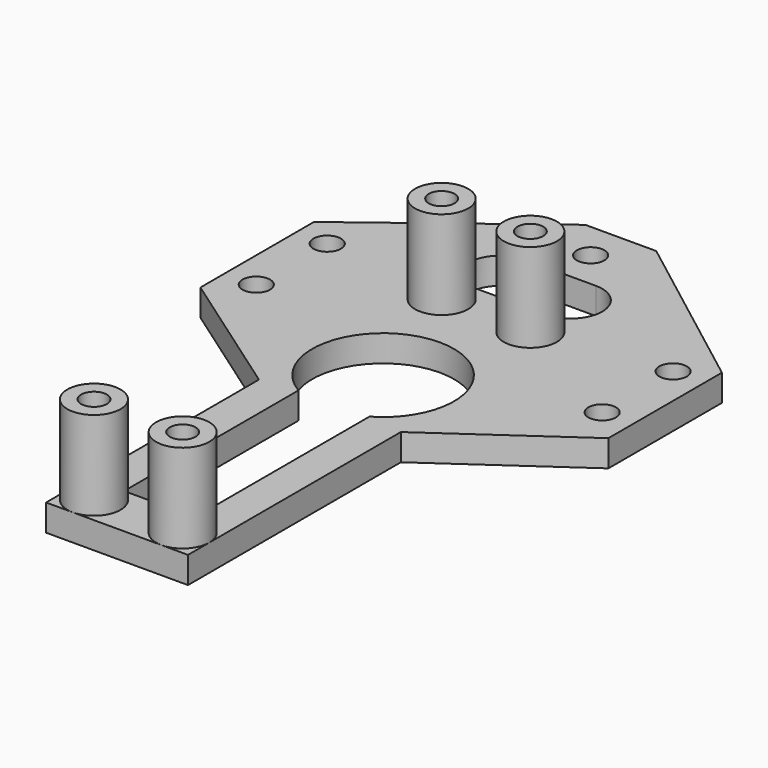
from build123d import *

# Parameters (mm, degrees)
SKETCH_R     = 1.55
PAD_DEPTH    = 3
SKETCH001_R  = 3
PAD001_DEPTH = 10
SKETCH002_R  = 1.45
POCKET_DEPTH = 7


with BuildPart() as part:
    # Sketch → Pad (new body)
    with BuildSketch(Plane.XY):
        Polygon((8, -30), (-8, -30), (-8, 0), (-23, 10.503113), (-23, 26.503113), (-4, 41), (4, 41), (23, 26.503113), (23, 10.503113), (8, 0), align=None)
        with Locations((0, 36.75)):
            Circle(SKETCH_R, mode=Mode.SUBTRACT)
        with Locations((19.5, 24)):
            Circle(SKETCH_R, mode=Mode.SUBTRACT)
        with Locations((19.5, 14)):
            Circle(SKETCH_R, mode=Mode.SUBTRACT)
        with Locations((-19.5, 24)):
            Circle(SKETCH_R, mode=Mode.SUBTRACT)
        with Locations((-19.5, 14)):
            Circle(SKETCH_R, mode=Mode.SUBTRACT)
        with BuildLine():
            ThreePointArc((-4, 32.5), (-7.5, 29), (-4, 25.5))
            Line((-4, 25.5), (4, 25.5))
            ThreePointArc((4, 25.5), (7.5, 29), (4, 32.5))
            Line((-4, 32.5), (4, 32.5))
        make_face(mode=Mode.SUBTRACT)
        with BuildLine():
            ThreePointArc((4, 0.571797), (0, 15.5), (-4, 0.571797))
            Line((-4, -24), (-4, 0.571797))
            Line((4, -24), (-4, -24))
            Line((4, 0.571797), (4, -24))
        make_face(mode=Mode.SUBTRACT)
    extrude(amount=PAD_DEPTH)

    # Sketch001 (on Face25 of Pad) → Pad001 (join)
    with BuildSketch(Plane.XY.offset(3)):
        with Locations((-5, 22)):
            Circle(SKETCH001_R)
        with Locations((5, 22)):
            Circle(SKETCH001_R)
        with Locations((5, -27)):
            Circle(SKETCH001_R)
        with Locations((-5, -27)):
            Circle(SKETCH001_R)
    extrude(amount=PAD001_DEPTH)

    # Sketch002 (on Face35 of Pad001) → Pocket (cut)
    with BuildSketch(Plane.XY.offset(13)):
        with Locations((-5, 22)):
            Circle(SKETCH002_R)
        with Locations((5, 22)):
            Circle(SKETCH002_R)
        with Locations((5, -27)):
            Circle(SKETCH002_R)
        with Locations((-5, -27)):
            Circle(SKETCH002_R)
    extrude(amount=-POCKET_DEPTH, mode=Mode.SUBTRACT)


solid = part.part
